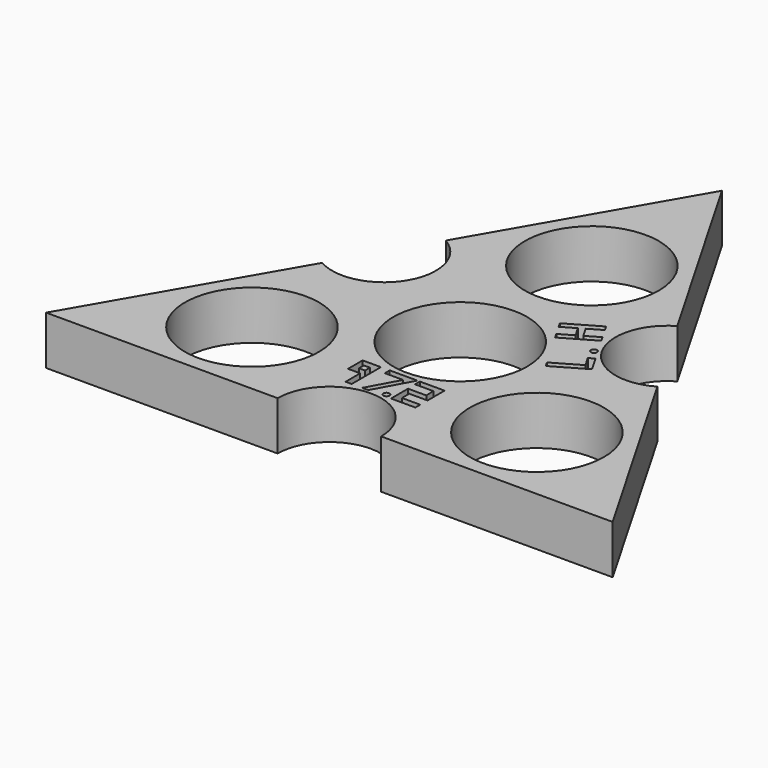
from build123d import *

# Parameters (mm, degrees)
F0_R     = 11
F1_DEPTH = 8
F2_W     = 1
F2_H     = 1
F2_R     = 0.5
F3_DEPTH = 3


with BuildPart() as f1:
    # F0 (on Top) → F1 (new body)
    with BuildSketch(Plane.XY):
        with BuildLine():
            ThreePointArc((-8.5, 0), (0, 8.5), (8.5, 0))
            Line((8.5, 0), (46.5, 0))
            Line((46.5, 0), (27.5, 32.908965))
            ThreePointArc((27.5, 32.908965), (15.888784, 36.020181), (19, 47.631397))
            Line((19, 47.631397), (0, 80.540363))
            Line((0, 80.540363), (-19, 47.631397))
            ThreePointArc((-19, 47.631397), (-15.888784, 36.020181), (-27.5, 32.908965))
            Line((-27.5, 32.908965), (-46.5, 0))
            Line((-46.5, 0), (-8.5, 0))
        make_face()
        with Locations((-23.382686, 13.346788)):
            Circle(F0_R, mode=Mode.SUBTRACT)
        with Locations((23.382686, 13.346788)):
            Circle(F0_R, mode=Mode.SUBTRACT)
        with Locations((0, 26.846788)):
            Circle(F0_R, mode=Mode.SUBTRACT)
        with Locations((0, 53.846788)):
            Circle(F0_R, mode=Mode.SUBTRACT)
    extrude(amount=F1_DEPTH)

    # F2 (on face) → F3 (cut)
    with BuildSketch(Plane.XY.offset(8)):
        Polygon((-6.540234, 12), (-4.540234, 12), (-4.540234, 9), (-3.540234, 9), (-3.540234, 12), (-3.540234, 15), (-6.540234, 15), align=None)
        with Locations((-5.040234, 13.5)):
            Rectangle(F2_W, F2_H, mode=Mode.SUBTRACT)
        Polygon((2.449274, 14.999983), (-2.095626, 14.999983), (-2.095626, 13.999983), (0.904374, 13.999983), (-1.820119, 9), (-0.820119, 9), align=None)
        Polygon((2.912836, 9), (6.912836, 9), (6.912836, 10), (3.912836, 10), (3.912836, 11.5), (6.912836, 11.5), (6.912836, 14.999983), (2.857154, 14.999983), (2.857154, 13.999983), (5.857154, 13.999983), (5.912836, 12.5), (2.912836, 12.5), (2.912836, 11.5), align=None)
        Polygon((8.759619, 35.368257), (13.955771, 38.368257), (13.455771, 39.234283), (11.290708, 37.984283), (10.290708, 39.716334), (12.455771, 40.966334), (11.955771, 41.832359), (6.759619, 38.832359), (7.259619, 37.966334), (9.424682, 39.216334), (10.424682, 37.484283), (8.259619, 36.234283), align=None)
        with Locations((1.763236, 9.5)):
            Circle(F2_R)
        with Locations((15.022759, 35.520181)):
            Circle(F2_R)
        Polygon((12.759619, 28.440054), (17.955771, 31.440054), (16.455771, 34.03813), (15.589746, 33.53813), (16.589746, 31.80608), (12.259619, 29.30608), align=None)
    extrude(amount=-F3_DEPTH, mode=Mode.SUBTRACT)


solid = f1.part
